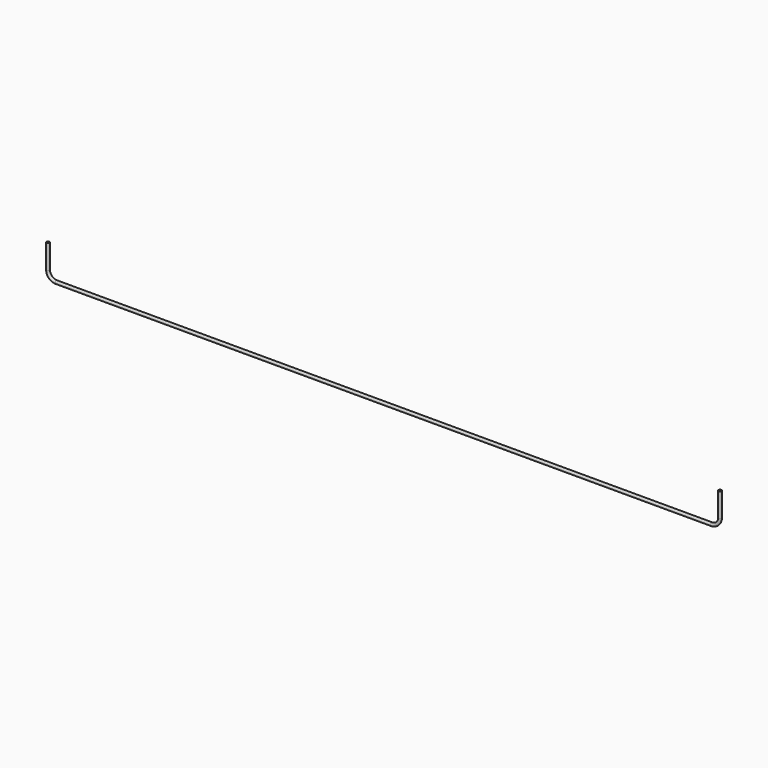
from build123d import *

# Parameters (mm, degrees)
F2_R = 9.5


with BuildPart() as f3:
    # F3: sweep along a path in F0
    with BuildLine(Plane.XZ) as f3_path:
        Line((-2086, 200), (-2086, 50))
        ThreePointArc((-2086, 50), (-2071.3553390593, 14.6446609407), (-2036, 0))
        Line((-2036, 0), (2036, 0))
        ThreePointArc((2036, 0), (2071.3553390593, 14.6446609407), (2086, 50))
        Line((2086, 50), (2086, 200))
    # F2 (on plane+point) → F3 (sweep)
    with BuildSketch(Plane.XY.offset(200)):
        with Locations((-2087.2440338135, 0)):
            Circle(F2_R)
    sweep(path=f3_path.line)


solid = f3.part
